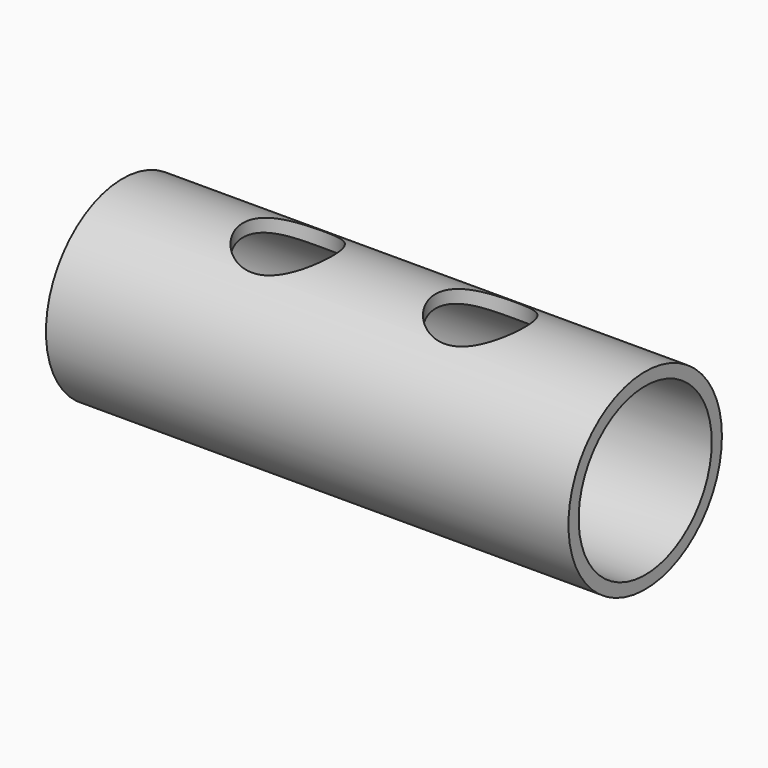
from build123d import *

# Parameters (mm, degrees)
F0_R     = 6.975
F0_R_2   = 6.05
F1_DEPTH = 38
F3_R     = 3.25
F4_DEPTH = 14


with BuildPart() as f1:
    # F0 (on Right) → F1 (new body)
    with BuildSketch(Plane.YZ):
        Circle(F0_R)
        Circle(F0_R_2, mode=Mode.SUBTRACT)
    extrude(amount=F1_DEPTH)

    # F3 (on offset) → F4 (cut)
    with BuildSketch(Plane.XY.offset(7)):
        with Locations((12, 0)):
            Circle(F3_R)
        with Locations((26, 0)):
            Circle(F3_R)
    extrude(amount=-F4_DEPTH, mode=Mode.SUBTRACT)


solid = f1.part
